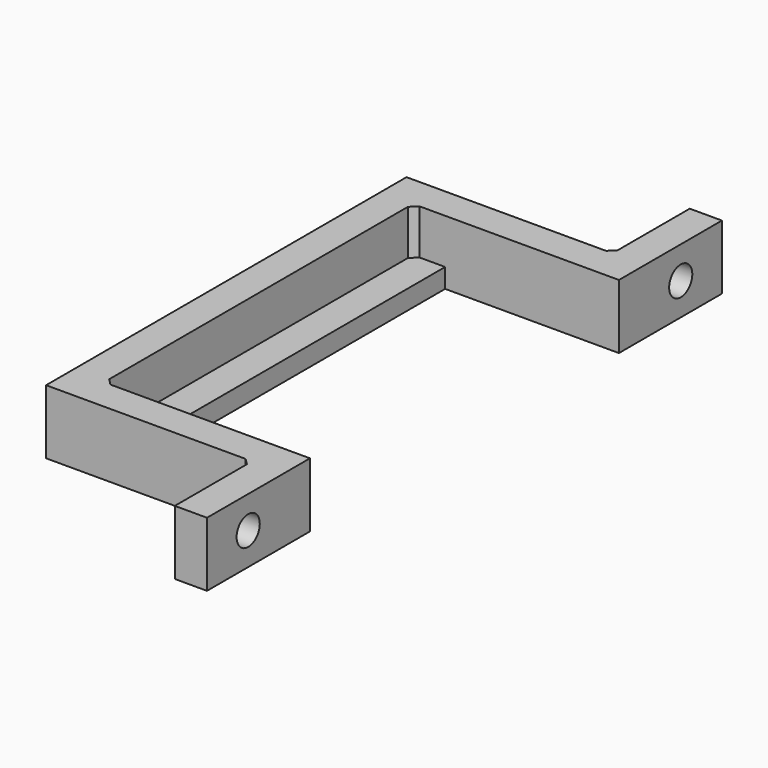
from build123d import *

# Parameters (mm, degrees)
F1_DEPTH       = 10
F2_SIZE        = 1
F5_D           = 4.5
F5_CSINK_D     = 8.5
F5_CSINK_ANGLE = 90
F6_DEPTH       = 3


with BuildPart() as f1:
    # F0 (on Top) → F1 (new body)
    with BuildSketch(Plane.XY):
        Polygon((0, -30), (0, 0), (0, 30), (5, 30), (32, 30), (32, 50), (27, 50), (27, 35), (-5, 35), (-5, 0), (-5, -35), (27, -35), (27, -50), (32, -50), (32, -30), (5, -30), align=None)
    extrude(amount=F1_DEPTH)

    # F2
    f2_edges = [f1.edges().sort_by_distance(p)[0] for p in [
        (0, -30, 5),
        (27, -35, 5),
        (0, 30, 5),
        (27, 35, 5),
    ]]
    chamfer(f2_edges, length=F2_SIZE)

    # F5 (through all)
    with Locations(Plane(origin=(27, 0, 0), x_dir=(0, -1, 0), z_dir=(-1, 0, 0))):
        with Locations((42, 5), (-42, 5)):
            CounterSinkHole(F5_D / 2, F5_CSINK_D / 2, counter_sink_angle=F5_CSINK_ANGLE)

    # F0 (on Top) → F6 (join)
    with BuildSketch(Plane.XY):
        Polygon((0, 30), (0, 0), (0, -30), (5, -30), (5, 30), align=None)
    extrude(amount=F6_DEPTH)


solid = f1.part
